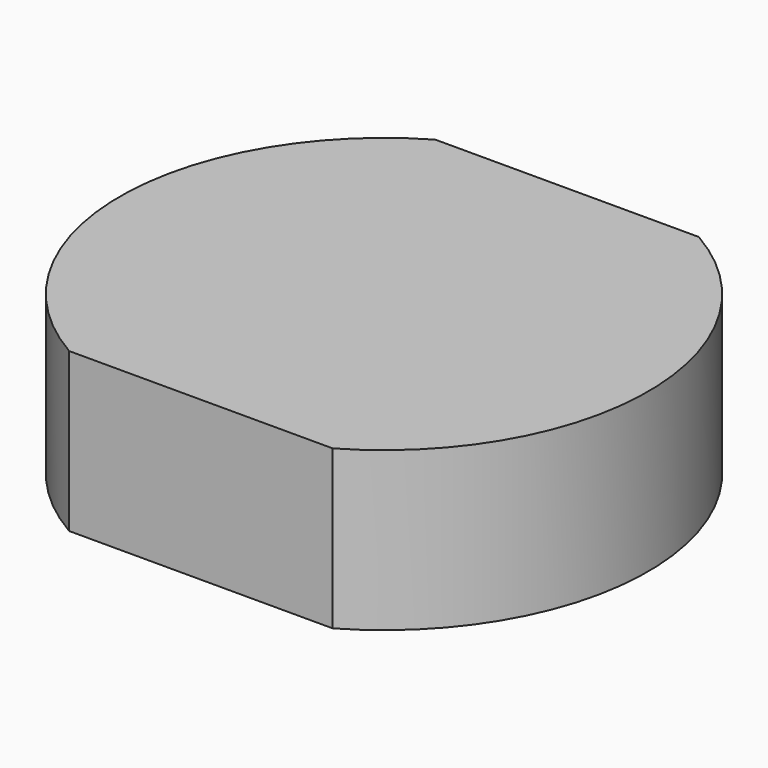
from build123d import *

# Parameters (mm, degrees)
PAD_1_DEPTH = 27


with BuildPart() as part:
    # Sketch_1 → Pad_1 (new body)
    with BuildSketch(Plane.XY):
        with BuildLine():
            ThreePointArc((22.449944, -39), (44.995511, 0.005203), (22.431948, 38.999998))
            Line((22.431948, 38.999998), (-22.449944, 38.999998))
            ThreePointArc((-22.449944, 38.999998), (-44.995511, -0.005205), (-22.431948, -39))
            Line((-22.431948, -39), (22.449944, -39))
        make_face()
    extrude(amount=PAD_1_DEPTH)


solid = part.part
